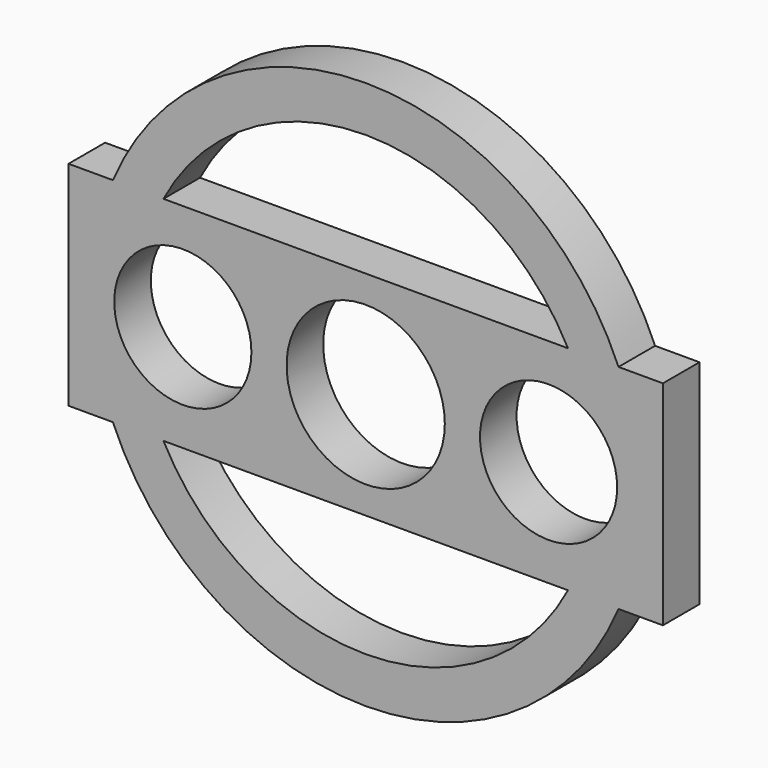
from build123d import *

# Parameters (mm, degrees)
F0_W     = 101.6
F0_H     = 101.6
F1_DEPTH = 6.35
F2_W     = 101.6
F2_H     = 101.6
F2_R     = 9.525
F2_R_2   = 10.9855
F3_DEPTH = 25.4


with BuildPart() as f1:
    # F0 (on Front) → F1 (new body)
    with BuildSketch(Plane.XZ):
        Rectangle(F0_W, F0_H)
    extrude(amount=F1_DEPTH)

    # F2 (on face) → F3 (cut)
    with BuildSketch(Plane.XZ.offset(6.35)):
        Rectangle(F2_W, F2_H)
        with BuildLine():
            ThreePointArc((35.109873, -14.7955), (0, -38.1), (-35.109873, -14.7955))
            Line((-35.109873, -14.7955), (-41.275, -14.7955))
            Line((-41.275, -14.7955), (-41.275, 14.7955))
            Line((-41.275, 14.7955), (-35.109873, 14.7955))
            ThreePointArc((-35.109873, 14.7955), (0, 38.1), (35.109873, 14.7955))
            Line((35.109873, 14.7955), (41.275, 14.7955))
            Line((41.275, 14.7955), (41.275, -14.7955))
            Line((41.275, -14.7955), (35.109873, -14.7955))
        make_face(mode=Mode.SUBTRACT)
        with Locations((-25.4, 0)):
            Circle(F2_R)
        Circle(F2_R_2)
        with BuildLine():
            ThreePointArc((28.091915, 14.7955), (0, 31.75), (-28.091915, 14.7955))
            Line((-28.091915, 14.7955), (28.091915, 14.7955))
        make_face()
        with BuildLine():
            Line((28.091915, -14.7955), (-28.091915, -14.7955))
            ThreePointArc((-28.091915, -14.7955), (0, -31.75), (28.091915, -14.7955))
        make_face()
        with Locations((25.4, 0)):
            Circle(F2_R)
    extrude(amount=-F3_DEPTH, mode=Mode.SUBTRACT)


solid = f1.part
